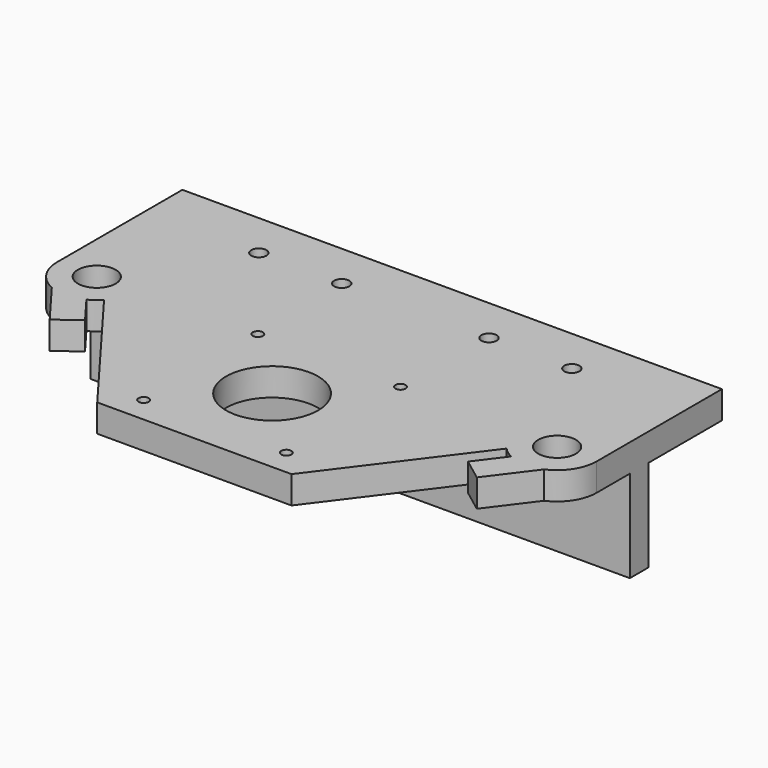
from build123d import *

# Parameters (mm, degrees)
F0_R     = 1.1
F0_R_2   = 10
F0_R_3   = 1.65
F1_DEPTH = 6
F2_W     = 5
F2_H     = 20
F3_DEPTH = 117.2


with BuildPart() as f1:
    # F0 (on Top) → F1 (new body)
    with BuildSketch(Plane.XY):
        with BuildLine():
            Line((0, 25), (0, 0))
            Line((0, 0), (0, -9))
            ThreePointArc((0, -9), (8.6, -0.4), (17.2, -9))
            ThreePointArc((17.2, -9), (16.5999275153, -12.1561305026), (14.8834512211, -14.8718174999))
            Line((14.8834512211, -14.8718174999), (37.5, -45))
            Line((37.5, -45), (79.7, -45))
            Line((79.7, -45), (102.3165487789, -14.8718174999))
            ThreePointArc((102.3165487789, -14.8718174999), (105.4438694974, -1.0000724847), (117.2, -9))
            Line((117.2, -9), (117.2, 25))
            Line((117.2, 25), (0, 25))
        make_face()
        with Locations((43.1, -39.4)):
            Circle(F0_R, mode=Mode.SUBTRACT)
        with Locations((74.1, -39.4)):
            Circle(F0_R, mode=Mode.SUBTRACT)
        with Locations((58.6, -23.9)):
            Circle(F0_R_2, mode=Mode.SUBTRACT)
        with Locations((43.1, -8.4)):
            Circle(F0_R, mode=Mode.SUBTRACT)
        with Locations((24.6, 15)):
            Circle(F0_R_3, mode=Mode.SUBTRACT)
        with Locations((42.6, 15)):
            Circle(F0_R_3, mode=Mode.SUBTRACT)
        with Locations((74.1, -8.4)):
            Circle(F0_R, mode=Mode.SUBTRACT)
        with Locations((74.6, 15)):
            Circle(F0_R_3, mode=Mode.SUBTRACT)
        with Locations((92.6, 15)):
            Circle(F0_R_3, mode=Mode.SUBTRACT)
        with BuildLine():
            ThreePointArc((17.2, -9), (8.6, -0.4), (0, -9))
            ThreePointArc((0, -9), (1.3952892231, -13.6959708922), (5.1284052606, -16.8681656036))
            ThreePointArc((5.1284052606, -16.8681656036), (8.8282621536, -17.5969701866), (12.484231675, -16.6728576355))
            Line((12.484231675, -16.6728576355), (9.6911672785, -12.9521328381))
            ThreePointArc((9.6911672785, -12.9521328381), (5.3378085708, -6.5164325902), (12.7, -9))
            ThreePointArc((12.7, -9), (12.5446537225, -10.1179029518), (12.0903868245, -11.1510927026))
            Line((12.0903868245, -11.1510927026), (14.8834512211, -14.8718174999))
            ThreePointArc((14.8834512211, -14.8718174999), (16.5999275153, -12.1561305026), (17.2, -9))
        make_face()
        with BuildLine():
            ThreePointArc((12.484231675, -16.6728576355), (8.8282621536, -17.5969701866), (5.1284052606, -16.8681656036))
            Line((5.1284052606, -16.8681656036), (12.2074985246, -26.2984379178))
            Line((12.2074985246, -26.2984379178), (17.0059376167, -22.6963576466))
            Line((17.0059376167, -22.6963576466), (12.484231675, -16.6728576355))
        make_face()
        with BuildLine():
            ThreePointArc((112.0715947394, -16.8681656036), (115.8047107769, -13.6959708922), (117.2, -9))
            ThreePointArc((117.2, -9), (105.4438694974, -1.0000724847), (102.3165487789, -14.8718174999))
            Line((102.3165487789, -14.8718174999), (105.1096131755, -11.1510927026))
            ThreePointArc((105.1096131755, -11.1510927026), (107.4820970482, -5.0553462775), (112.7, -9))
            ThreePointArc((112.7, -9), (111.0835674098, -12.2621914292), (107.5088327215, -12.9521328381))
            Line((107.5088327215, -12.9521328381), (104.715768325, -16.6728576355))
            ThreePointArc((104.715768325, -16.6728576355), (108.3717378464, -17.5969701866), (112.0715947394, -16.8681656036))
        make_face()
        with BuildLine():
            ThreePointArc((12.484231675, -16.6728576355), (13.762981722, -15.8777626986), (14.8834512211, -14.8718174999))
            Line((14.8834512211, -14.8718174999), (12.0903868245, -11.1510927026))
            ThreePointArc((12.0903868245, -11.1510927026), (11.0614215186, -12.2789333796), (9.6911672785, -12.9521328381))
            Line((9.6911672785, -12.9521328381), (12.484231675, -16.6728576355))
        make_face()
        with BuildLine():
            Line((105.1096131755, -11.1510927026), (102.3165487789, -14.8718174999))
            ThreePointArc((102.3165487789, -14.8718174999), (103.437018278, -15.8777626986), (104.715768325, -16.6728576355))
            Line((104.715768325, -16.6728576355), (107.5088327215, -12.9521328381))
            ThreePointArc((107.5088327215, -12.9521328381), (106.1385784814, -12.2789333796), (105.1096131755, -11.1510927026))
        make_face()
        with BuildLine():
            Line((104.9925014754, -26.2984379178), (112.0715947394, -16.8681656036))
            ThreePointArc((112.0715947394, -16.8681656036), (108.3717378464, -17.5969701866), (104.715768325, -16.6728576355))
            Line((104.715768325, -16.6728576355), (100.1940623833, -22.6963576466))
            Line((100.1940623833, -22.6963576466), (104.9925014754, -26.2984379178))
        make_face()
    extrude(amount=F1_DEPTH)

    # F2 (on Right) → F3 (join)
    with BuildSketch(Plane.YZ):
        with Locations((2.5, -10)):
            Rectangle(F2_W, F2_H)
    extrude(amount=F3_DEPTH)


solid = f1.part
